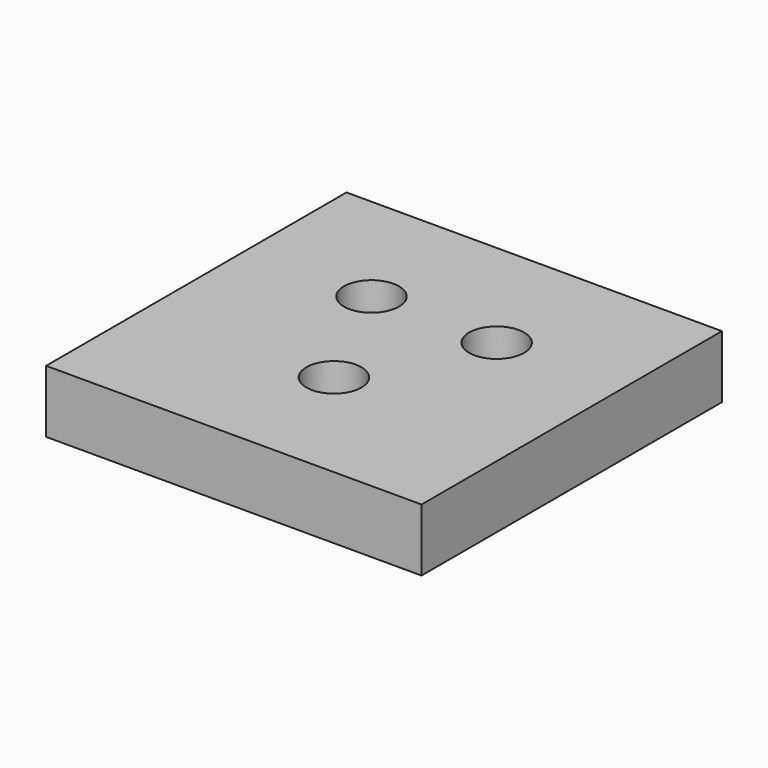
from build123d import *

# Parameters (mm, degrees)
F0_W     = 60
F0_H     = 60
F1_DEPTH = 10
F3_D     = 8.8


with BuildPart() as f1:
    # F0 (on Top) → F1 (new body)
    with BuildSketch(Plane.XY):
        with Locations((30, 30)):
            Rectangle(F0_W, F0_H)
    extrude(amount=F1_DEPTH)

    # F3 (through all)
    with Locations(Plane.XY.offset(10)):
        with Locations((20, 40), (40, 40), (30, 20)):
            Hole(F3_D / 2)


solid = f1.part
